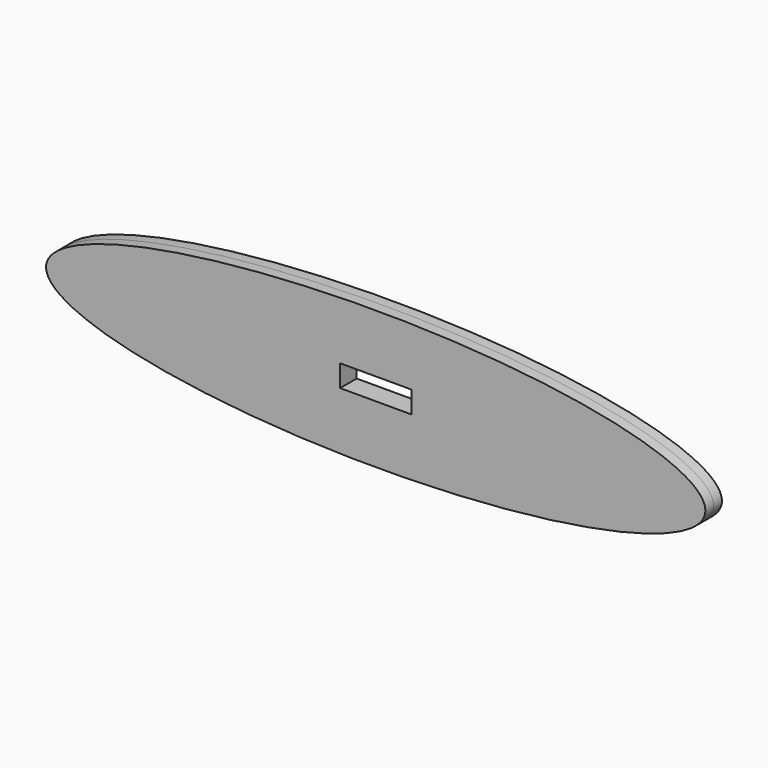
from build123d import *

# Parameters (mm, degrees)
F0_W     = 30.897369
F0_H     = 9.5
F1_DEPTH = 4.5


with BuildPart() as f1:
    # F0 (on Front) → F1 (new body, symmetric)
    with BuildSketch(Plane.XZ):
        with BuildLine():
            add(Edge.make_bspline(
                [(-143.097, -95.352893), (-143.097, -147.314417), (71.548482, -121.333655), (286.193964, -95.352893), (71.548482, -69.372131), (-143.097, -43.391369), (-143.097, -95.352893)],
                knots=[0, 0, 0, 2.094395, 2.094395, 4.18879, 4.18879, 6.283185, 6.283185, 6.283185], degree=2, weights=[1, 0.5, 1, 0.5, 1, 0.5, 1]))
        make_face()
        with Locations((-1.2e-05, -95.352893)):
            Rectangle(F0_W, F0_H, mode=Mode.SUBTRACT)
    extrude(amount=F1_DEPTH, both=True)


solid = f1.part
